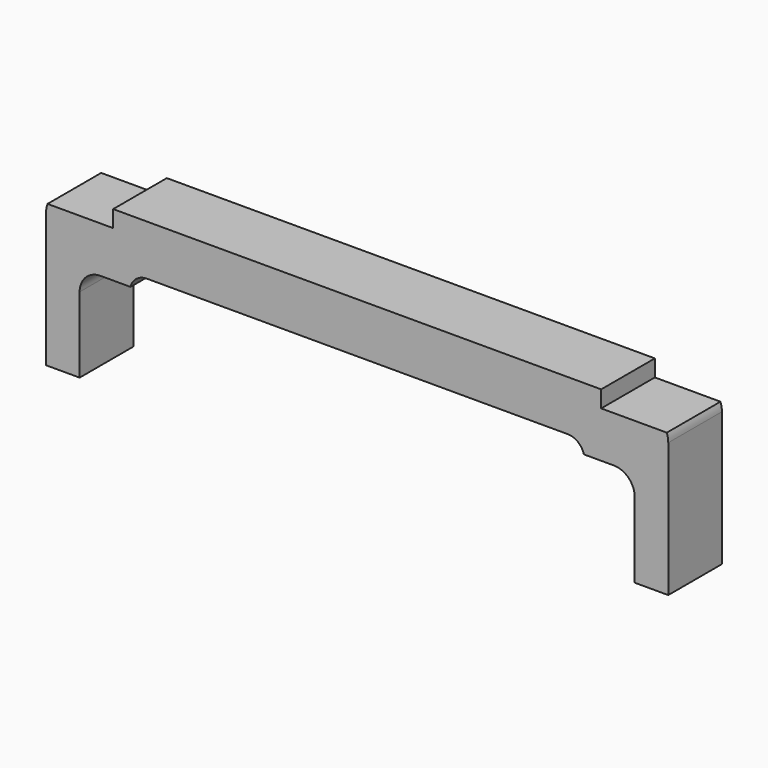
from build123d import *

# Parameters (mm, degrees)
F1_DEPTH = 8
F2_R     = 2
F3_R     = 3
F4_R     = 2.5
F5_DEPTH = 8.001
F7_DEPTH = 8.001


with BuildPart() as f1:
    # F0 (on Front) → F1 (new body)
    with BuildSketch(Plane.XZ):
        Polygon((-37.1, 0), (-33.1, 0), (-33.1, 9), (-27.1, 9), (-27.1, 13), (0, 13), (0, 19), (-37.1, 19), align=None)
    extrude(amount=F1_DEPTH)

    # F2
    f2_edges = [f1.edges().sort_by_distance(p)[0] for p in [
        (-27.1, -4, 13),
    ]]
    fillet(f2_edges, radius=F2_R)

    # F3
    f3_edges = [f1.edges().sort_by_distance(p)[0] for p in [
        (-37.1, -4, 19),
    ]]
    fillet(f3_edges, radius=F3_R)

    # F4 (on face) → F5 (cut, through all)
    with BuildSketch(Plane.XZ.offset(8)):
        with Locations((-30.6, 9)):
            Circle(F4_R)
    extrude(amount=-F5_DEPTH, mode=Mode.SUBTRACT)

    # F6 (on face) → F7 (cut, through all)
    with BuildSketch(Plane.XZ.offset(8)):
        with BuildLine():
            Line((-29.1, 19), (-34.1, 19))
            ThreePointArc((-34.1, 19), (-35.8320508076, 18.4494897428), (-36.9284271247, 17))
            Line((-36.9284271247, 17), (-29.1, 17))
            Line((-29.1, 17), (-29.1, 19))
        make_face()
        with BuildLine():
            ThreePointArc((-27.1, 11), (-27.0840593925, 11.252008585), (-27.0364916731, 11.5))
            Line((-27.0364916731, 11.5), (-30.6, 11.5))
            ThreePointArc((-30.6, 11.5), (-28.832233047, 10.767766953), (-28.1, 9))
            Line((-28.1, 9), (-27.1, 9))
            Line((-27.1, 9), (-27.1, 11))
        make_face()
    extrude(amount=-F7_DEPTH, mode=Mode.SUBTRACT)

    # F8: F1 across plane


with BuildPart() as f1_1:
    add(f1.part)
    add(f1.part.mirror(Plane.YZ))


solid = f1_1.part
